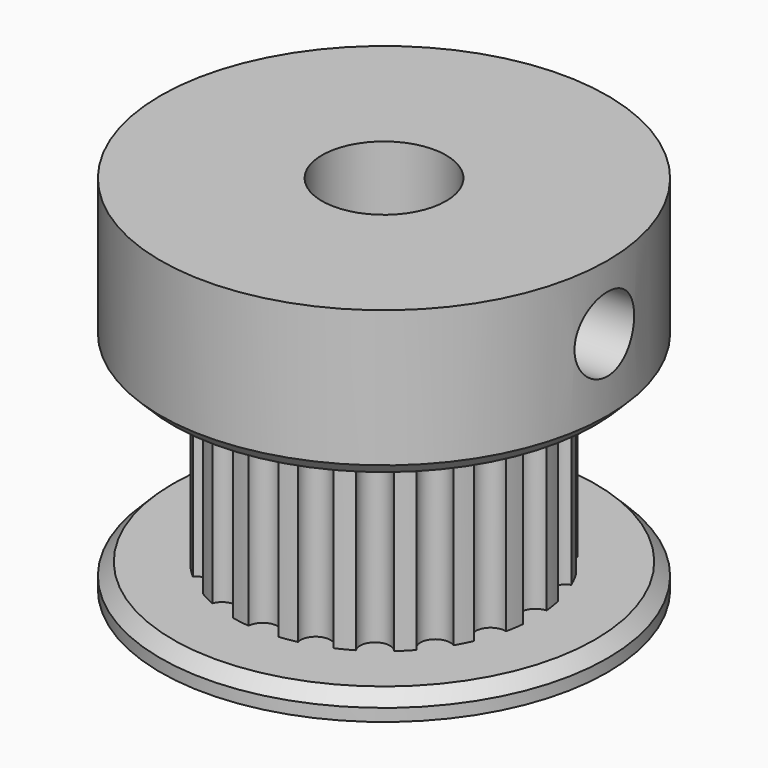
from build123d import *

# Parameters (mm, degrees)
CYLINDER012012_R                          = 1.5
CYLINDER012012_DEPTH                      = 9
CYLINDER012008_R                          = 2.5
CYLINDER012008_DEPTH                      = 14.6
CYLINDER012007_R                          = 9
CYLINDER012007_DEPTH                      = 1
CHAMFER_SIZE                              = 0.5
CYLINDER012009_R                          = 9
CYLINDER012009_DEPTH                      = 6
CHAMFER001_SIZE                           = 0.5
CYLINDER012006_R                          = 0.6
CYLINDER012006_DEPTH                      = 7.6
ARRAY003008004001001001002001001004_COUNT = 20
CYLINDER012011_R                          = 6.1
CYLINDER012011_DEPTH                      = 7.6


with BuildPart() as cilindro005:
    # Cylinder012012 → Cylinder012012 (new body)
    with BuildSketch(Plane(origin=(1, 0, 12), x_dir=(0, 0, -1), z_dir=(1, 0, 0))):
        Circle(CYLINDER012012_R)
    extrude(amount=CYLINDER012012_DEPTH)


with BuildPart() as cilindro004:
    # Cylinder012008 → Cylinder012008 (new body)
    with BuildSketch(Plane.XY):
        Circle(CYLINDER012008_R)
    extrude(amount=CYLINDER012008_DEPTH)


with BuildPart() as chamfer_body:
    # Cylinder012007 → Cylinder012007 (new body)
    with BuildSketch(Plane.XY):
        Circle(CYLINDER012007_R)
    extrude(amount=CYLINDER012007_DEPTH)

    # Chamfer
    chamfer_edges = [chamfer_body.edges().sort_by_distance(p)[0] for p in [
        (-9, 0, 1),
    ]]
    chamfer(chamfer_edges, length=CHAMFER_SIZE)


with BuildPart() as chamfer001:
    # Cylinder012009 → Cylinder012009 (new body)
    with BuildSketch(Plane.XY.offset(8.6)):
        Circle(CYLINDER012009_R)
    extrude(amount=CYLINDER012009_DEPTH)

    # Chamfer001
    chamfer001_edges = [chamfer001.edges().sort_by_distance(p)[0] for p in [
        (-9, 0, 8.6),
    ]]
    chamfer(chamfer001_edges, length=CHAMFER001_SIZE)


with BuildPart() as array003008004001001001002001001004:
    # Cylinder012006 → Cylinder012006 (new body)
    with BuildSketch(Plane(origin=(6.1, 0, 0), x_dir=(1, 0, 0), z_dir=(0, 0, 1))):
        Circle(CYLINDER012006_R)
    extrude(amount=CYLINDER012006_DEPTH)

    # Array003008004001001001002001001004: Array003008004001001001002001001004 ×20 about axis
    array003008004001001001002001001004_axis = Axis((0, 0, 0), (0, 0, 1))


with BuildPart() as array003008004001001001002001001004_1:
    add(array003008004001001001002001001004.part)
    for i in range(1, ARRAY003008004001001001002001001004_COUNT):
        add(array003008004001001001002001001004.part.rotate(array003008004001001001002001001004_axis, i * 360 / ARRAY003008004001001001002001001004_COUNT))


with BuildPart() as cut002002:
    # Cylinder012011 → Cylinder012011 (new body)
    with BuildSketch(Plane.XY):
        Circle(CYLINDER012011_R)
    extrude(amount=CYLINDER012011_DEPTH)

    # Cut002004: cut Array003008004001001001002001001004
    add(array003008004001001001002001001004_1.part, mode=Mode.SUBTRACT)


with BuildPart() as cut002002_1:
    # Cut002004 placement: moved
    add(cut002002.part.moved(Location((0, 0, 1))))

    # Fusion007: union Chamfer body, Chamfer001
    add(chamfer_body.part)
    add(chamfer001.part)

    # Cut002003: cut Cilindro004
    add(cilindro004.part, mode=Mode.SUBTRACT)

    # Cut002002: cut Cilindro005
    add(cilindro005.part, mode=Mode.SUBTRACT)


solid = cut002002_1.part
